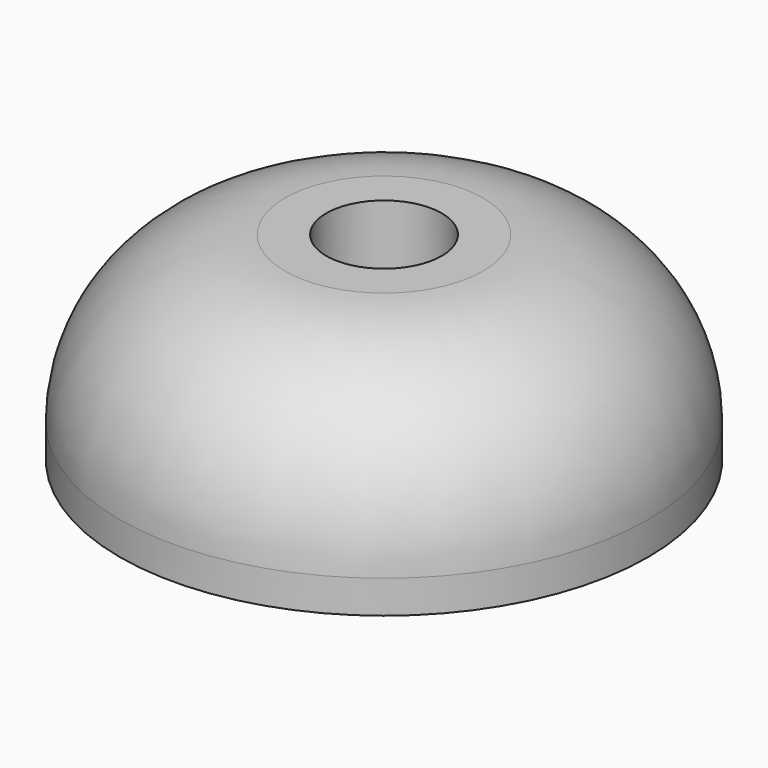
from build123d import *

# Parameters (mm, degrees)
SKETCH001_W        = 1.5
SKETCH001_H        = 10
POCKET_DEPTH       = 4
POLARPATTERN_COUNT = 5


with BuildPart() as part:
    # Sketch → Revolution (revolve)
    with BuildSketch(Plane.XZ):
        with BuildLine():
            Line((16, 0), (16, 2))
            ThreePointArc((16, 2), (13.071068, 9.071068), (6, 12))
            Line((3.5, 12), (6, 12))
            Line((3.5, 7.7), (3.5, 12))
            Line((1.8, 6), (3.5, 7.7))
            Line((1.8, 6), (1.8, 0))
            Line((1.8, 0), (16, 0))
        make_face()
    revolve(axis=Axis((0, 0, 0), (0, 0, 1)))

    # Sketch001 (on Face2 of Revolution) → Pocket (cut)
    with BuildSketch(Plane(origin=(0, 0, 0), x_dir=(1, 0, 0), z_dir=(0, 0, -1))):
        with Locations((0, 8.5)):
            Rectangle(SKETCH001_W, SKETCH001_H)
    pocket = extrude(amount=-POCKET_DEPTH, mode=Mode.SUBTRACT)

    # PolarPattern: Pocket ×5 about axis
    polarpattern_axis = Axis((0, 0, 0), (0, 0, -1))
    for i in range(1, POLARPATTERN_COUNT):
        add(pocket.rotate(polarpattern_axis, i * 360 / POLARPATTERN_COUNT), mode=Mode.SUBTRACT)


solid = part.part
